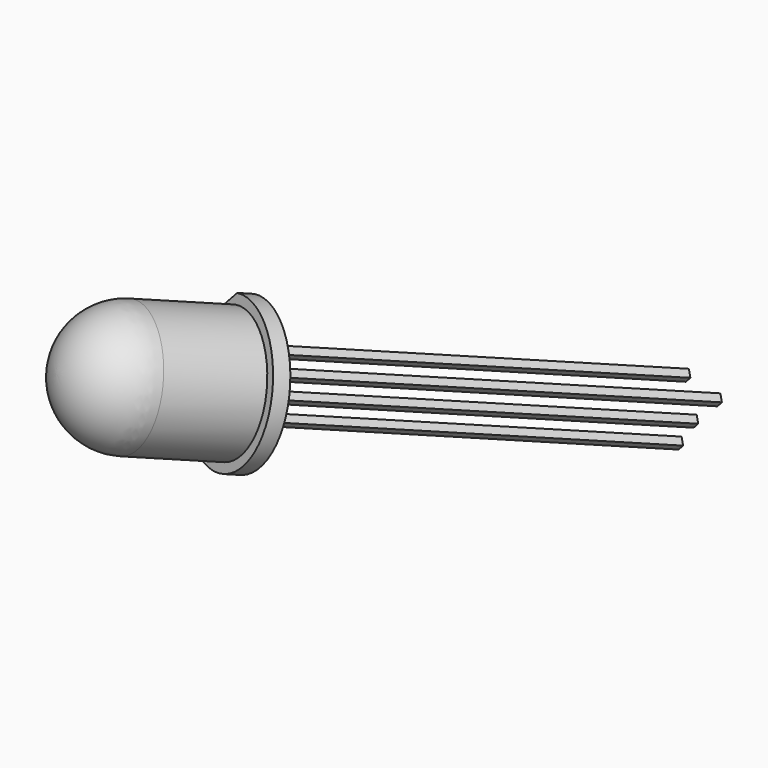
from build123d import *

# Parameters (mm, degrees)
SKETCH013_W             = 0.5
SKETCH013_H             = 0.5
PAD002_DEPTH            = 27.5
SKETCH015_W             = 1
SKETCH015_H             = 6.098212
POCKET007_DEPTH         = 5
SKETCH016_W             = 0.5
SKETCH016_H             = 0.5
POCKET008_DEPTH         = 2.7
SKETCH012_W             = 0.5
SKETCH012_H             = 0.5
POCKET006_DEPTH         = 1.6
BODY002_ROLL_ANGLE      = 20.373723
BODY002_PITCH_ANGLE     = -39.65157
BODY002_PLACEMENT_ANGLE = 140.328442


with BuildPart() as part:
    # Sketch014 → Revolution002 (revolve)
    with BuildSketch(Plane.XY):
        with BuildLine():
            ThreePointArc((4, 7), (2.828427, 9.828427), (0, 11))
            Line((0, 0), (0, 11))
            Line((4.6, 0), (0, 0))
            Line((4.6, 1), (4.6, 0))
            Line((4, 1), (4.6, 1))
            Line((4, 7), (4, 1))
        make_face()
    revolve(axis=Axis((0, 0, 0), (0, 1, 0)))

    # Sketch013 (on Face2 of Revolution002) → Pad002 (new body)
    with BuildSketch(Plane.XZ):
        with Locations((0.635, 0)):
            Rectangle(SKETCH013_W, SKETCH013_H)
        with Locations((1.905, 0)):
            Rectangle(SKETCH013_W, SKETCH013_H)
        with Locations((-0.635, 0)):
            Rectangle(SKETCH013_W, SKETCH013_H)
        with Locations((-1.905, 0)):
            Rectangle(SKETCH013_W, SKETCH013_H)
    extrude(amount=PAD002_DEPTH)

    # Sketch015 (on Face5 of Pad002) → Pocket007 (cut)
    with BuildSketch(Plane.XZ):
        with Locations((4.5, 0)):
            Rectangle(SKETCH015_W, SKETCH015_H)
    extrude(amount=-POCKET007_DEPTH, mode=Mode.SUBTRACT)

    # Sketch016 (on Face23 of Pocket007) → Pocket008 (cut)
    with BuildSketch(Plane.XZ.offset(27.5)):
        with Locations((-1.905, 0)):
            Rectangle(SKETCH016_W, SKETCH016_H)
    extrude(amount=-POCKET008_DEPTH, mode=Mode.SUBTRACT)

    # Sketch012 (on Face24 of Pocket008) → Pocket006 (cut)
    with BuildSketch(Plane.XZ.offset(27.5)):
        with Locations((-0.635, 0)):
            Rectangle(SKETCH012_W, SKETCH012_H)
        with Locations((1.905, 0)):
            Rectangle(SKETCH012_W, SKETCH012_H)
    extrude(amount=-POCKET006_DEPTH, mode=Mode.SUBTRACT)


with BuildPart() as part_1:
    # Body002 roll: moved
    add(part.part.rotate(Axis((0, 0, 0), (1, 0, 0)), BODY002_ROLL_ANGLE))


with BuildPart() as part_2:
    # Body002 pitch: moved
    add(part_1.part.rotate(Axis((0, 0, 0), (0, 1, 0)), BODY002_PITCH_ANGLE))


with BuildPart() as part_3:
    # Body002 placement: moved
    add(part_2.part.moved(Location((-20.638585, -42.154901, 13.214565))).rotate(Axis((-20.638585, -42.154901, 13.214565), (0, 0, 1)), BODY002_PLACEMENT_ANGLE))


solid = part_3.part
